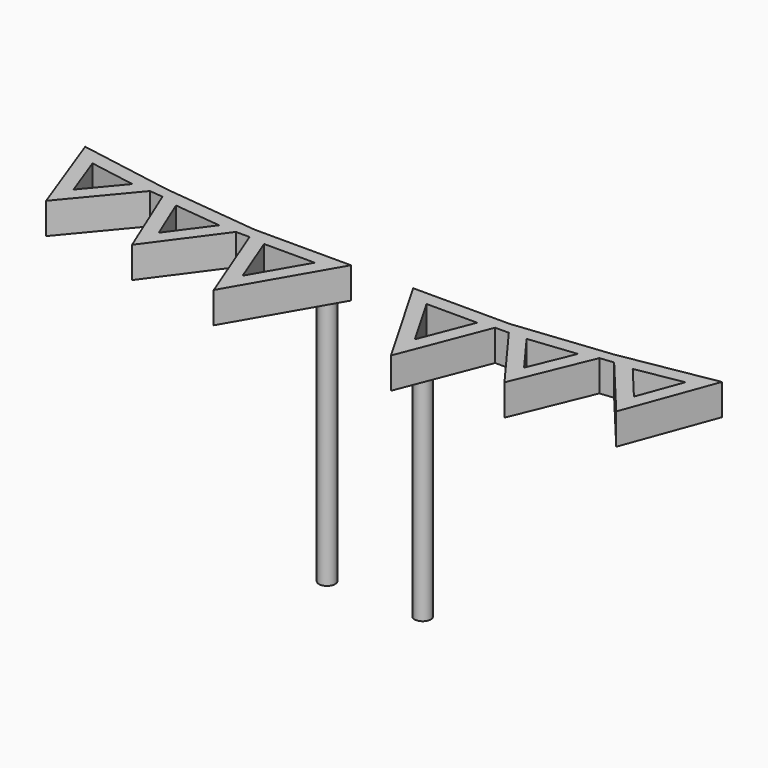
from build123d import *

# Parameters (mm, degrees)
F1_DEPTH = 1.27
F2_R     = 0.3302
F3_DEPTH = 10.16


with BuildPart() as f1:
    # F0 (on Top) → F1 (new body)
    with BuildSketch(Plane.XY):
        Polygon((3.937, 0), (0, 0), (2.348765, -4.06818), (3.743264, -0.496245), (4.302064, -0.496245), (6.333618, -3.257811), (7.650429, -0.060491), (8.205945, 0), (10.370969, -2.598556), (11.730417, 1.096288), (7.850865, 0.426183), align=None)
        Polygon((2.246752, -2.723089), (1.011864, -0.5842), (3.081783, -0.5842), align=None, mode=Mode.SUBTRACT)
        Polygon((6.188872, -2.07519), (5.008711, -0.470954), (6.936006, -0.26109), align=None, mode=Mode.SUBTRACT)
        Polygon((10.172099, -1.447205), (8.947399, 0.022734), (10.832753, 0.348386), align=None, mode=Mode.SUBTRACT)
        Polygon((3.937, 0), (0, 0), (2.348765, -4.06818), (3.743264, -0.496245), (4.302064, -0.496245), (6.333618, -3.257811), (7.650429, -0.060491), (8.205945, 0), (10.370969, -2.598556), (11.730417, 1.096288), (7.850865, 0.426183), align=None)
        Polygon((2.246752, -2.723089), (1.011864, -0.5842), (3.081783, -0.5842), align=None, mode=Mode.SUBTRACT)
        Polygon((6.188872, -2.07519), (5.008711, -0.470954), (6.936006, -0.26109), align=None, mode=Mode.SUBTRACT)
        Polygon((10.172099, -1.447205), (8.947399, 0.022734), (10.832753, 0.348386), align=None, mode=Mode.SUBTRACT)
        Polygon((3.937, 0), (0, 0), (2.348765, -4.06818), (3.743264, -0.496245), (4.302064, -0.496245), (6.333618, -3.257811), (7.650429, -0.060491), (8.205945, 0), (10.370969, -2.598556), (11.730417, 1.096288), (7.850865, 0.426183), align=None)
        Polygon((2.246752, -2.723089), (1.011864, -0.5842), (3.081783, -0.5842), align=None, mode=Mode.SUBTRACT)
        Polygon((6.188872, -2.07519), (5.008711, -0.470954), (6.936006, -0.26109), align=None, mode=Mode.SUBTRACT)
        Polygon((10.172099, -1.447205), (8.947399, 0.022734), (10.832753, 0.348386), align=None, mode=Mode.SUBTRACT)
    extrude(amount=F1_DEPTH)

    # F2 (on face) → F3 (join)
    with BuildSketch(Plane(origin=(0, 0, 0), x_dir=(1, 0, 0), z_dir=(0, 0, -1))):
        with Locations((0.683135, 0.368311)):
            Circle(F2_R)
    extrude(amount=F3_DEPTH)


with BuildPart() as f5_1:
    # F5: instance of F1
    add(f1.part.mirror(Plane.YZ.offset(-1.27)))


solid = Compound([f1.part, f5_1.part])
